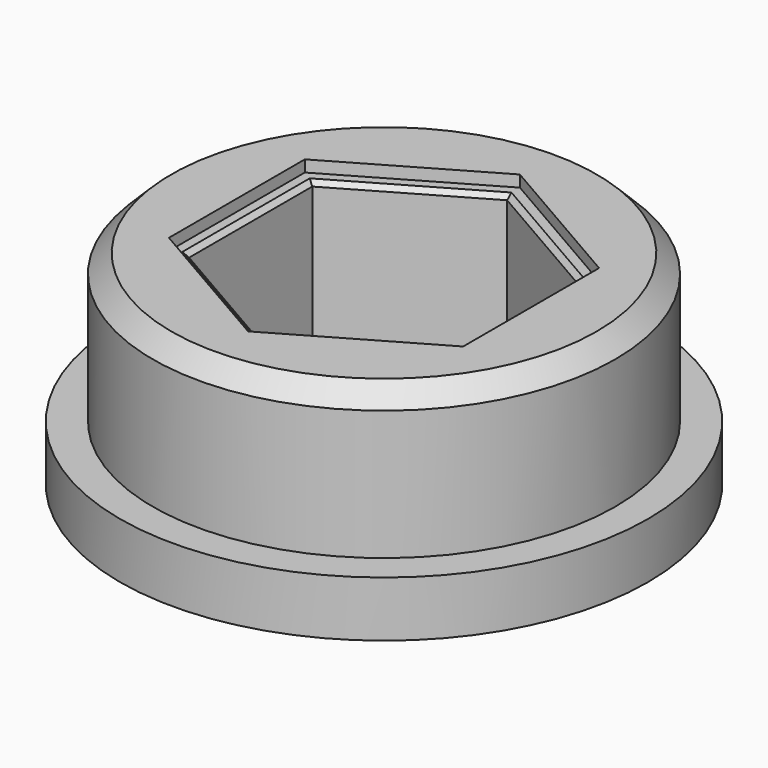
from build123d import *

# Parameters (mm, degrees)
POCKET023_DEPTH = 22.001
POCKET024_DEPTH = 1.25
CHAMFER_SIZE    = 2
CHAMFER001_SIZE = 0.5


with BuildPart() as part:
    # Sketch032 (on XZ_Plane051 of Origin102) → Revolution010 (revolve)
    with BuildSketch(Plane.XZ):
        Polygon((0, 0), (28.5, 0), (28.5, 6), (24.95, 6), (24.95, 22), (0, 22), align=None)
    revolve(axis=Axis((0, 0, 0), (0, 0, 1)))

    # Sketch033 (on XY_Plane051 of Origin102) → Pocket023 (cut, through all)
    with BuildSketch(Plane.XY):
        Polygon((14.3875, 8.306627), (0, 16.613254), (-14.3875, 8.306627), (-14.3875, -8.306627), (0, -16.613254), (14.3875, -8.306627), align=None)
    extrude(amount=POCKET023_DEPTH, mode=Mode.SUBTRACT)

    # Sketch034 (on XY_Plane051 of Origin102) → Pocket024 (cut)
    with BuildSketch(Plane.XY.offset(22)):
        Polygon((15.875, -9.165436), (15.875, 9.165436), (0, 18.330871), (-15.875, 9.165436), (-15.875, -9.165436), (0, -18.330871), align=None)
    extrude(amount=-POCKET024_DEPTH, mode=Mode.SUBTRACT)

    # Chamfer
    chamfer_edges = [part.edges().sort_by_distance(p)[0] for p in [
        (-24.95, 0, 22),
    ]]
    chamfer(chamfer_edges, length=CHAMFER_SIZE)

    # Chamfer001
    chamfer001_edges = [part.edges().sort_by_distance(p)[0] for p in [
        (-14.3875, 0, 20.75),
        (-7.19375, 12.45994, 20.75),
        (7.19375, 12.45994, 20.75),
        (14.3875, 0, 20.75),
        (7.19375, -12.45994, 20.75),
        (-7.19375, -12.45994, 20.75),
    ]]
    chamfer(chamfer001_edges, length=CHAMFER001_SIZE)


with BuildPart() as part_1:
    # Body055 placement: moved
    add(part.part.moved(Location((-60, 60, 0))))


solid = part_1.part
